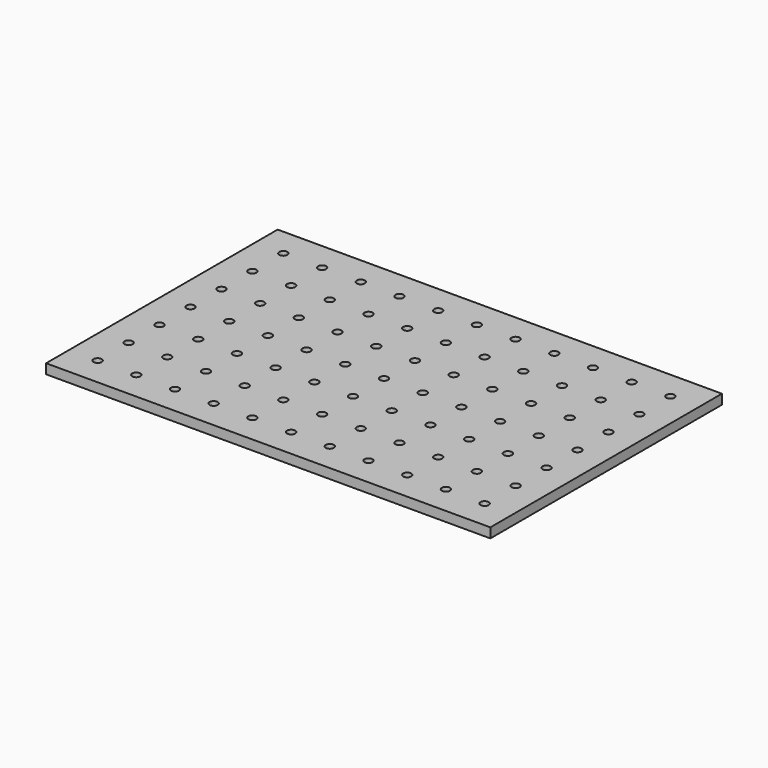
from build123d import *

# Parameters (mm, degrees)
F0_W     = 1102
F0_H     = 718
F0_R     = 10.1
F1_DEPTH = 24.2


with BuildPart() as f1:
    # F0 (on Top) → F1 (new body)
    with BuildSketch(Plane.XY):
        with Locations((-37.770042, 27.045646)):
            Rectangle(F0_W, F0_H)
        with Locations((-517.770042, -260.954354)):
            Circle(F0_R, mode=Mode.SUBTRACT)
        with Locations((-421.770042, -260.954354)):
            Circle(F0_R, mode=Mode.SUBTRACT)
        with Locations((-325.770042, -260.954354)):
            Circle(F0_R, mode=Mode.SUBTRACT)
        with Locations((-517.770042, -164.954354)):
            Circle(F0_R, mode=Mode.SUBTRACT)
        with Locations((-421.770042, -164.954354)):
            Circle(F0_R, mode=Mode.SUBTRACT)
        with Locations((-325.770042, -164.954354)):
            Circle(F0_R, mode=Mode.SUBTRACT)
        with Locations((-229.770042, -260.954354)):
            Circle(F0_R, mode=Mode.SUBTRACT)
        with Locations((-133.770042, -260.954354)):
            Circle(F0_R, mode=Mode.SUBTRACT)
        with Locations((-37.770042, -260.954354)):
            Circle(F0_R, mode=Mode.SUBTRACT)
        with Locations((-229.770042, -164.954354)):
            Circle(F0_R, mode=Mode.SUBTRACT)
        with Locations((-133.770042, -164.954354)):
            Circle(F0_R, mode=Mode.SUBTRACT)
        with Locations((-37.770042, -164.954354)):
            Circle(F0_R, mode=Mode.SUBTRACT)
        with Locations((-517.770042, -68.954354)):
            Circle(F0_R, mode=Mode.SUBTRACT)
        with Locations((-421.770042, -68.954354)):
            Circle(F0_R, mode=Mode.SUBTRACT)
        with Locations((-325.770042, -68.954354)):
            Circle(F0_R, mode=Mode.SUBTRACT)
        with Locations((-229.770042, -68.954354)):
            Circle(F0_R, mode=Mode.SUBTRACT)
        with Locations((-133.770042, -68.954354)):
            Circle(F0_R, mode=Mode.SUBTRACT)
        with Locations((-37.770042, -68.954354)):
            Circle(F0_R, mode=Mode.SUBTRACT)
        with Locations((58.229958, -260.954354)):
            Circle(F0_R, mode=Mode.SUBTRACT)
        with Locations((154.229958, -260.954354)):
            Circle(F0_R, mode=Mode.SUBTRACT)
        with Locations((58.229958, -164.954354)):
            Circle(F0_R, mode=Mode.SUBTRACT)
        with Locations((154.229958, -164.954354)):
            Circle(F0_R, mode=Mode.SUBTRACT)
        with Locations((250.229958, -260.954354)):
            Circle(F0_R, mode=Mode.SUBTRACT)
        with Locations((346.229958, -260.954354)):
            Circle(F0_R, mode=Mode.SUBTRACT)
        with Locations((442.229958, -260.954354)):
            Circle(F0_R, mode=Mode.SUBTRACT)
        with Locations((250.229958, -164.954354)):
            Circle(F0_R, mode=Mode.SUBTRACT)
        with Locations((346.229958, -164.954354)):
            Circle(F0_R, mode=Mode.SUBTRACT)
        with Locations((442.229958, -164.954354)):
            Circle(F0_R, mode=Mode.SUBTRACT)
        with Locations((58.229958, -68.954354)):
            Circle(F0_R, mode=Mode.SUBTRACT)
        with Locations((154.229958, -68.954354)):
            Circle(F0_R, mode=Mode.SUBTRACT)
        with Locations((250.229958, -68.954354)):
            Circle(F0_R, mode=Mode.SUBTRACT)
        with Locations((346.229958, -68.954354)):
            Circle(F0_R, mode=Mode.SUBTRACT)
        with Locations((442.229958, -68.954354)):
            Circle(F0_R, mode=Mode.SUBTRACT)
        with Locations((-517.770042, 27.045646)):
            Circle(F0_R, mode=Mode.SUBTRACT)
        with Locations((-421.770042, 27.045646)):
            Circle(F0_R, mode=Mode.SUBTRACT)
        with Locations((-325.770042, 27.045646)):
            Circle(F0_R, mode=Mode.SUBTRACT)
        with Locations((-517.770042, 123.045646)):
            Circle(F0_R, mode=Mode.SUBTRACT)
        with Locations((-421.770042, 123.045646)):
            Circle(F0_R, mode=Mode.SUBTRACT)
        with Locations((-325.770042, 123.045646)):
            Circle(F0_R, mode=Mode.SUBTRACT)
        with Locations((-229.770042, 27.045646)):
            Circle(F0_R, mode=Mode.SUBTRACT)
        with Locations((-133.770042, 27.045646)):
            Circle(F0_R, mode=Mode.SUBTRACT)
        with Locations((-37.770042, 27.045646)):
            Circle(F0_R, mode=Mode.SUBTRACT)
        with Locations((-229.770042, 123.045646)):
            Circle(F0_R, mode=Mode.SUBTRACT)
        with Locations((-133.770042, 123.045646)):
            Circle(F0_R, mode=Mode.SUBTRACT)
        with Locations((-37.770042, 123.045646)):
            Circle(F0_R, mode=Mode.SUBTRACT)
        with Locations((-517.770042, 219.045646)):
            Circle(F0_R, mode=Mode.SUBTRACT)
        with Locations((-421.770042, 219.045646)):
            Circle(F0_R, mode=Mode.SUBTRACT)
        with Locations((-325.770042, 219.045646)):
            Circle(F0_R, mode=Mode.SUBTRACT)
        with Locations((-517.770042, 315.045646)):
            Circle(F0_R, mode=Mode.SUBTRACT)
        with Locations((-421.770042, 315.045646)):
            Circle(F0_R, mode=Mode.SUBTRACT)
        with Locations((-325.770042, 315.045646)):
            Circle(F0_R, mode=Mode.SUBTRACT)
        with Locations((-229.770042, 219.045646)):
            Circle(F0_R, mode=Mode.SUBTRACT)
        with Locations((-133.770042, 219.045646)):
            Circle(F0_R, mode=Mode.SUBTRACT)
        with Locations((-37.770042, 219.045646)):
            Circle(F0_R, mode=Mode.SUBTRACT)
        with Locations((-229.770042, 315.045646)):
            Circle(F0_R, mode=Mode.SUBTRACT)
        with Locations((-133.770042, 315.045646)):
            Circle(F0_R, mode=Mode.SUBTRACT)
        with Locations((-37.770042, 315.045646)):
            Circle(F0_R, mode=Mode.SUBTRACT)
        with Locations((58.229958, 27.045646)):
            Circle(F0_R, mode=Mode.SUBTRACT)
        with Locations((154.229958, 27.045646)):
            Circle(F0_R, mode=Mode.SUBTRACT)
        with Locations((58.229958, 123.045646)):
            Circle(F0_R, mode=Mode.SUBTRACT)
        with Locations((154.229958, 123.045646)):
            Circle(F0_R, mode=Mode.SUBTRACT)
        with Locations((250.229958, 27.045646)):
            Circle(F0_R, mode=Mode.SUBTRACT)
        with Locations((346.229958, 27.045646)):
            Circle(F0_R, mode=Mode.SUBTRACT)
        with Locations((442.229958, 27.045646)):
            Circle(F0_R, mode=Mode.SUBTRACT)
        with Locations((250.229958, 123.045646)):
            Circle(F0_R, mode=Mode.SUBTRACT)
        with Locations((346.229958, 123.045646)):
            Circle(F0_R, mode=Mode.SUBTRACT)
        with Locations((442.229958, 123.045646)):
            Circle(F0_R, mode=Mode.SUBTRACT)
        with Locations((58.229958, 219.045646)):
            Circle(F0_R, mode=Mode.SUBTRACT)
        with Locations((154.229958, 219.045646)):
            Circle(F0_R, mode=Mode.SUBTRACT)
        with Locations((58.229958, 315.045646)):
            Circle(F0_R, mode=Mode.SUBTRACT)
        with Locations((154.229958, 315.045646)):
            Circle(F0_R, mode=Mode.SUBTRACT)
        with Locations((250.229958, 219.045646)):
            Circle(F0_R, mode=Mode.SUBTRACT)
        with Locations((346.229958, 219.045646)):
            Circle(F0_R, mode=Mode.SUBTRACT)
        with Locations((442.229958, 219.045646)):
            Circle(F0_R, mode=Mode.SUBTRACT)
        with Locations((250.229958, 315.045646)):
            Circle(F0_R, mode=Mode.SUBTRACT)
        with Locations((346.229958, 315.045646)):
            Circle(F0_R, mode=Mode.SUBTRACT)
        with Locations((442.229958, 315.045646)):
            Circle(F0_R, mode=Mode.SUBTRACT)
    extrude(amount=F1_DEPTH)


solid = f1.part
